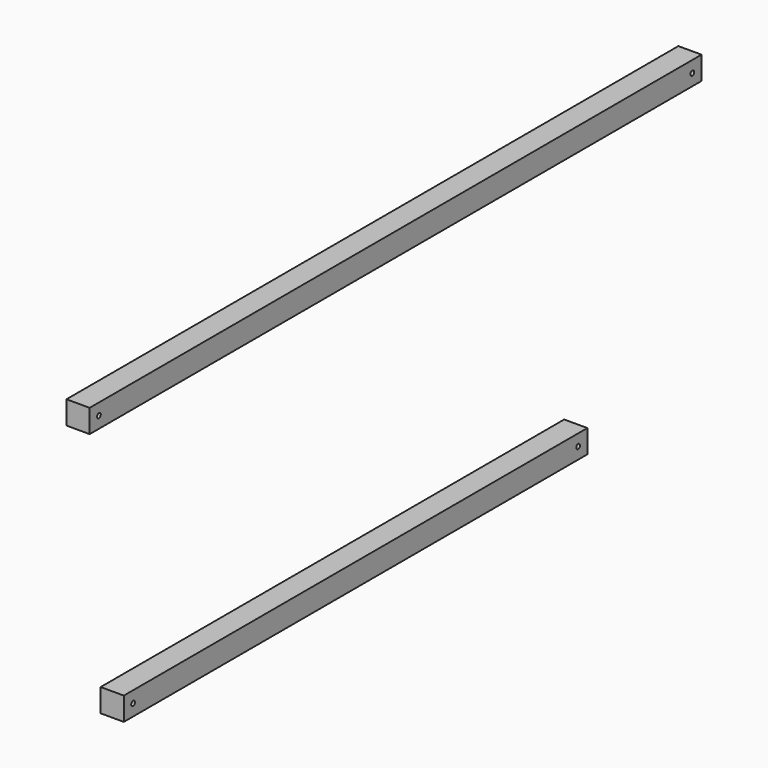
from build123d import *

# Parameters (mm, degrees)
F0_W     = 419.1
F0_H     = 12.7
F1_DEPTH = 12.7
F0_W_2   = 292.1
F2_D     = 2.54
F3_D     = 2.54
F4_D     = 2.54


with BuildPart() as f1:
    # F0 (on Right) → F1 (new body)
    with BuildSketch(Plane.YZ):
        with Locations((-563.935660553, 148.9198846579)):
            Rectangle(F0_W, F0_H)
    extrude(amount=F1_DEPTH)

    # F2 (through all)
    with Locations(Plane(origin=(0, 0, 0), x_dir=(0, 1, 0), z_dir=(-1, 0, 0))):
        with Locations((-360.735660553, -148.9198846579)):
            Hole(F2_D / 2)

    # F3 (through all)
    with Locations(Plane(origin=(0, 0, 0), x_dir=(0, 1, 0), z_dir=(-1, 0, 0))):
        with Locations((-767.135660553, -148.9198846579)):
            Hole(F3_D / 2)


with BuildPart() as f1b:
    # F0 (on Right) → F1, piece 2 (new body)
    with BuildSketch(Plane.YZ):
        Polygon((-743.7286781311, 0.5894386373), (-750.0786781311, 6.9394386373), (-750.0786781311, -5.7605613627), align=None)
        Polygon((-737.3786781311, 6.9394386373), (-750.0786781311, 6.9394386373), (-743.7286781311, 0.5894386373), align=None)
        with Locations((-591.3286781311, 0.5894386373)):
            Rectangle(F0_W_2, F0_H)
        Polygon((-737.3786781311, -5.7605613627), (-737.3786781311, 6.9394386373), (-743.7286781311, 0.5894386373), align=None)
        Polygon((-743.7286781311, 0.5894386373), (-750.0786781311, -5.7605613627), (-737.3786781311, -5.7605613627), align=None)
        Polygon((-438.9286781311, 0.5894386373), (-445.2786781311, 6.9394386373), (-445.2786781311, -5.7605613627), align=None)
        Polygon((-432.5786781311, 6.9394386373), (-445.2786781311, 6.9394386373), (-438.9286781311, 0.5894386373), align=None)
        Polygon((-432.5786781311, -5.7605613627), (-432.5786781311, 6.9394386373), (-438.9286781311, 0.5894386373), align=None)
        Polygon((-438.9286781311, 0.5894386373), (-445.2786781311, -5.7605613627), (-432.5786781311, -5.7605613627), align=None)
    extrude(amount=F1_DEPTH)

    # F4 (through all)
    with Locations(Plane(origin=(0, 0, 0), x_dir=(0, 1, 0), z_dir=(-1, 0, 0))):
        with Locations((-743.7286781311, -0.5894386373), (-438.9286781311, -0.5894386373)):
            Hole(F4_D / 2)


solid = Compound([f1.part, f1b.part])
